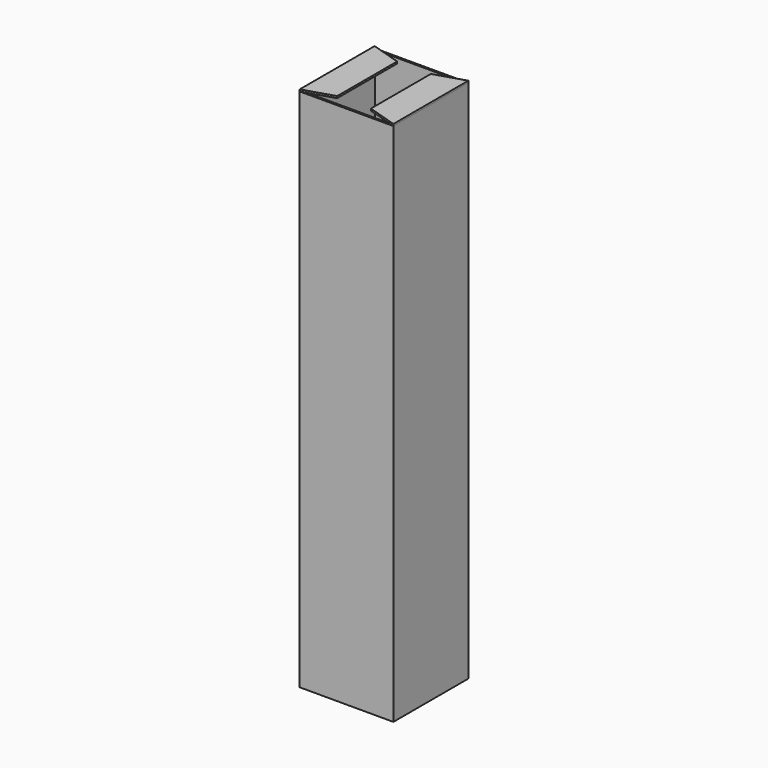
from build123d import *

# Parameters (mm, degrees)
F0_W     = 25
F0_H     = 25
F1_DEPTH = 140
F2_T     = -0.5
F4_DEPTH = 0.5


with BuildPart() as f1:
    # F0 (on Top) → F1 (new body)
    with BuildSketch(Plane.XY):
        Rectangle(F0_W, F0_H)
    extrude(amount=F1_DEPTH)

    # F2
    f2_openings = [f1.faces().sort_by_distance(p)[0] for p in [
        (0, 0, 140),
    ]]
    offset(amount=F2_T, openings=f2_openings)


with BuildPart() as f4:
    # F3 (on face) → F4 (new body)
    with BuildSketch(Plane.XY.offset(140)):
        Polygon((-4.5, 10), (-12.5, 12.5), (-12.5, -12.5), (-4.5, -10), align=None)
    extrude(amount=F4_DEPTH)


with BuildPart() as f5_1:
    # F5: instance of F4
    add(f4.part.mirror(Plane.YZ))


solid = Compound([f1.part, f4.part, f5_1.part])
